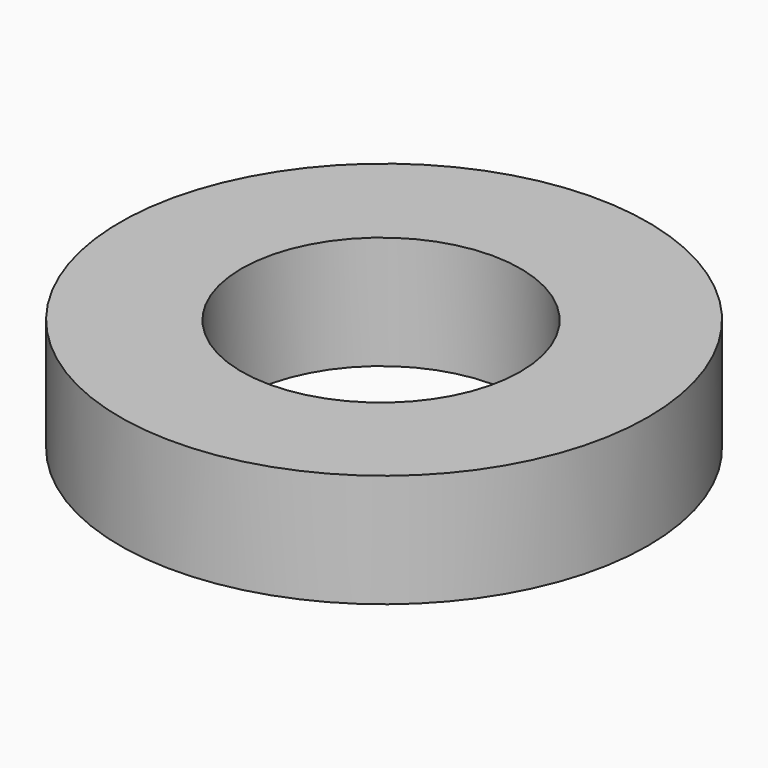
from build123d import *

# Parameters (mm, degrees)
SKETCH_R     = 3.5
PAD_DEPTH    = 1.5
SKETCH001_R  = 1.85
POCKET_DEPTH = 5


with BuildPart() as part:
    # Sketch → Pad (new body)
    with BuildSketch(Plane.XY):
        Circle(SKETCH_R)
    extrude(amount=PAD_DEPTH)

    # Sketch001 (on Face3 of Pad) → Pocket (cut)
    with BuildSketch(Plane.XY.offset(1.5)):
        with Locations((-0.019309, -0.026468)):
            Circle(SKETCH001_R)
    extrude(amount=-POCKET_DEPTH, mode=Mode.SUBTRACT)


solid = part.part
